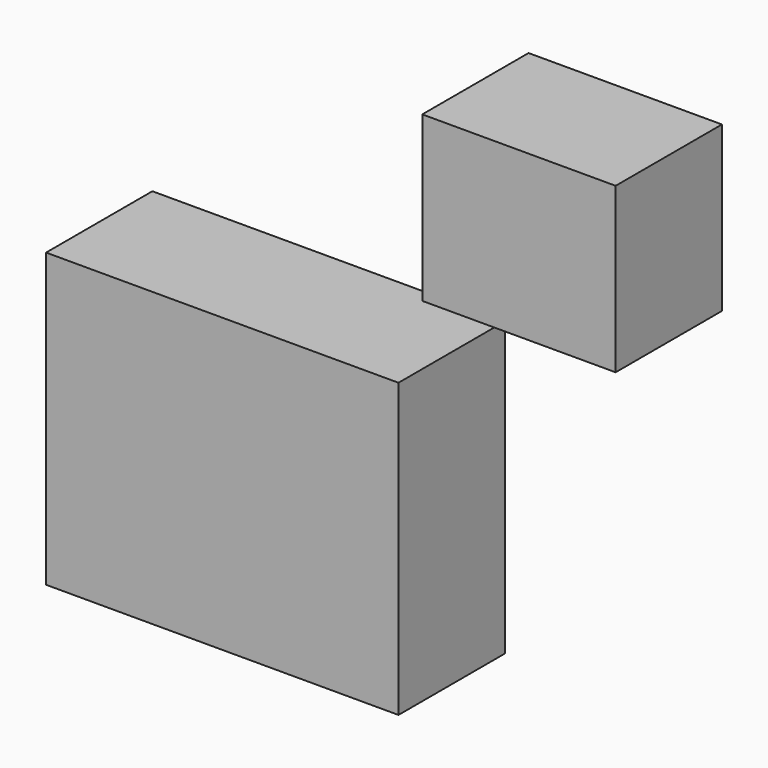
from build123d import *

# Parameters (mm, degrees)
F0_W     = 67.376838
F0_H     = 55.917256
F1_W     = 36.968469
F1_H     = 31.393864
F2_DEPTH = 25.4


with BuildPart() as f2:
    # F0 (on Front) + F1 (on Front) → F2 (new body)
    with BuildSketch(Plane.XZ):
        Rectangle(F0_W, F0_H)
    with BuildSketch(Plane.XZ):
        with Locations((56.720368, 58.912389)):
            Rectangle(F1_W, F1_H)
    extrude(amount=F2_DEPTH)


solid = f2.part
